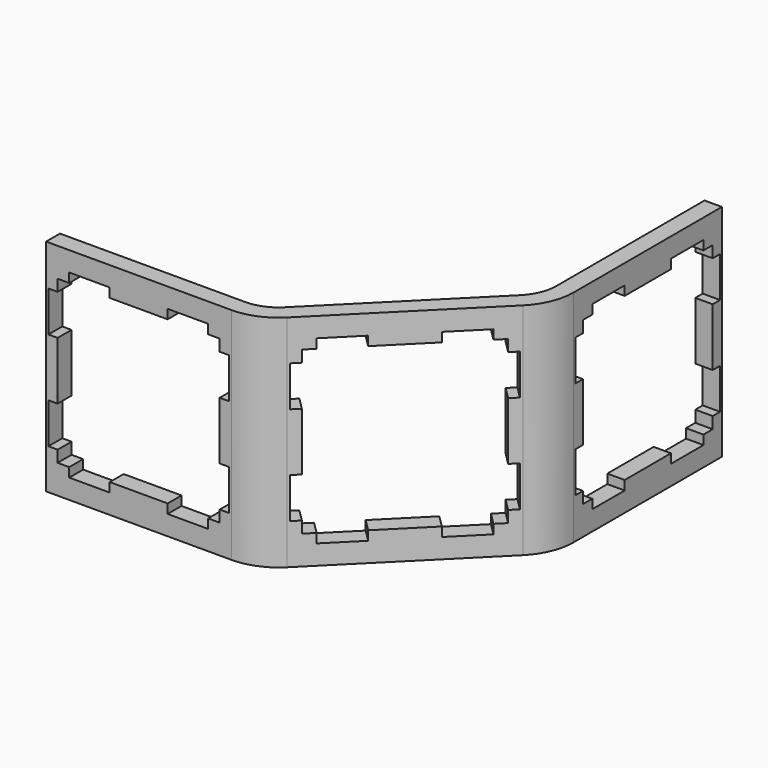
from build123d import *

# Parameters (mm, degrees)
PAD_DEPTH       = 19
POCKET_DEPTH    = 11.62232
POCKET002_DEPTH = 1.501
POCKET003_DEPTH = 1.501


with BuildPart() as part:
    # Sketch → Pad (new body)
    with BuildSketch(Plane.XY):
        with BuildLine():
            Line((0, 0), (16, 0))
            ThreePointArc((16, 0), (17.959845, 0.389838), (19.62132, 1.500001))
            Line((19.62132, 1.500001), (30.935023, 12.813715))
            ThreePointArc((30.935023, 12.813715), (32.045185, 14.475191), (32.435022, 16.435035))
            Line((32.435022, 32.435035), (32.435022, 16.435035))
            Line((30.935022, 32.435035), (32.435022, 32.435035))
            Line((30.935022, 16.435035), (30.935022, 32.435035))
            ThreePointArc((29.874363, 13.874375), (30.659366, 15.049216), (30.935022, 16.435035))
            Line((29.874363, 13.874375), (18.56066, 2.560661))
            ThreePointArc((16, 1.5), (17.385819, 1.775657), (18.56066, 2.560661))
            Line((16, 1.5), (0, 1.5))
            Line((0, 1.5), (0, 0))
        make_face()
    extrude(amount=PAD_DEPTH)

    # Sketch004 → Pocket (cut, through all)
    with BuildSketch(Plane(origin=(8.000009, -8.000001, 0), x_dir=(-0.707106, -0.707107, 0), z_dir=(-0.707107, 0.707106, 0))):
        Polygon((-28.935023, 17.3), (-25.435023, 17.3), (-25.435023, 16.5), (-20.435023, 16.5), (-20.435023, 17.3), (-16.935023, 17.3), (-16.935023, 16.5), (-15.935023, 16.5), (-15.935023, 15.5), (-15.135024, 15.5), (-15.135024, 12), (-15.935023, 12), (-15.935023, 7), (-15.135024, 7), (-15.135024, 3.5), (-15.935023, 3.5), (-15.935023, 2.5), (-16.935023, 2.5), (-16.935023, 1.7), (-20.435023, 1.7), (-20.435023, 2.5), (-25.435023, 2.5), (-25.435023, 1.7), (-28.935023, 1.7), (-28.935023, 2.5), (-29.935023, 2.5), (-29.935023, 3.5), (-30.735024, 3.5), (-30.735024, 7), (-29.935023, 7), (-29.935023, 12), (-30.735024, 12), (-30.735024, 15.5), (-29.935023, 15.5), (-29.935023, 16.5), (-28.935023, 16.5), align=None)
    extrude(amount=-POCKET_DEPTH, mode=Mode.SUBTRACT)

    # Sketch004001 → Pocket002 (cut, through all)
    with BuildSketch(Plane(origin=(30.935022, 0, 0), x_dir=(0, -1, 0), z_dir=(-1, 0, 0))):
        Polygon((-30.435035, 17.3), (-26.935035, 17.3), (-26.935035, 16.5), (-21.935035, 16.5), (-21.935035, 17.3), (-18.435035, 17.3), (-18.435035, 16.5), (-17.435035, 16.5), (-17.435035, 15.5), (-16.635036, 15.5), (-16.635036, 12), (-17.435035, 12), (-17.435035, 7), (-16.635036, 7), (-16.635036, 3.5), (-17.435035, 3.5), (-17.435035, 2.5), (-18.435035, 2.5), (-18.435035, 1.7), (-21.935035, 1.7), (-21.935035, 2.5), (-26.935035, 2.5), (-26.935035, 1.7), (-30.435035, 1.7), (-30.435035, 2.5), (-31.435035, 2.5), (-31.435035, 3.5), (-32.235036, 3.5), (-32.235036, 7), (-31.435035, 7), (-31.435035, 12), (-32.235036, 12), (-32.235036, 15.5), (-31.435035, 15.5), (-31.435035, 16.5), (-30.435035, 16.5), align=None)
    extrude(amount=-POCKET002_DEPTH, mode=Mode.SUBTRACT)

    # Sketch004001001 → Pocket003 (cut, through all)
    with BuildSketch(Plane(origin=(0, 1.5, 0), x_dir=(-1, 0, 0), z_dir=(0, 1, 0))):
        Polygon((-14, 17.3), (-10.5, 17.3), (-10.5, 16.5), (-5.5, 16.5), (-5.5, 17.3), (-2, 17.3), (-2, 16.5), (-1, 16.5), (-1, 15.5), (-0.200001, 15.5), (-0.200001, 12), (-1, 12), (-1, 7), (-0.200001, 7), (-0.200001, 3.5), (-1, 3.5), (-1, 2.5), (-2, 2.5), (-2, 1.7), (-5.5, 1.7), (-5.5, 2.5), (-10.5, 2.5), (-10.5, 1.7), (-14, 1.7), (-14, 2.5), (-15, 2.5), (-15, 3.5), (-15.800001, 3.5), (-15.800001, 7), (-15, 7), (-15, 12), (-15.800001, 12), (-15.800001, 15.5), (-15, 15.5), (-15, 16.5), (-14, 16.5), align=None)
    extrude(amount=-POCKET003_DEPTH, mode=Mode.SUBTRACT)


with BuildPart() as part_1:
    # Clone placement: moved
    add(part.part.moved(Location((2.38, -2.38, 19))))


with BuildPart() as part_2:
    # Clone001 placement: moved
    add(part_1.part.moved(Location((4.75, 4.76, 19))))


with BuildPart() as part_3:
    # Clone002 placement: moved
    add(part_2.part.moved(Location((-2.38, -2.38, 19))))


with BuildPart() as part_4:
    # Clone003 placement: moved
    add(part_3.part.moved(Location((-4.75, -2.38, 19))))


with BuildPart() as part_5:
    # Clone004 placement: moved
    add(part_4.part.moved(Location((-2.38, 2.38, 19))))


solid = part_5.part
